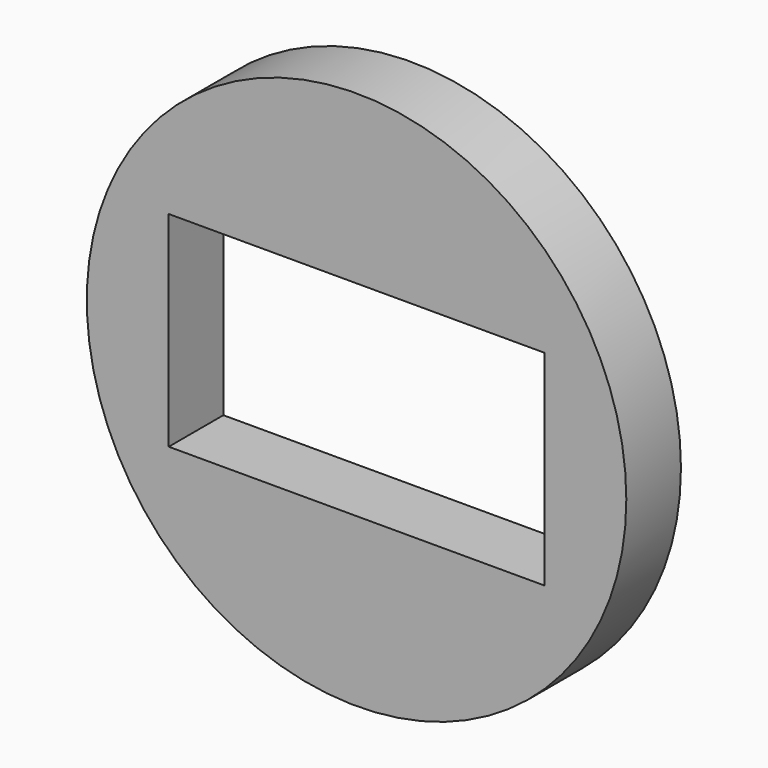
from build123d import *

# Parameters (mm, degrees)
F0_R     = 50.165
F0_W     = 69.85
F0_H     = 38.1
F1_DEPTH = 12.7


with BuildPart() as f1:
    # F0 (on Front) → F1 (new body)
    with BuildSketch(Plane.XZ):
        Circle(F0_R)
        Rectangle(F0_W, F0_H, mode=Mode.SUBTRACT)
    extrude(amount=F1_DEPTH)


solid = f1.part
